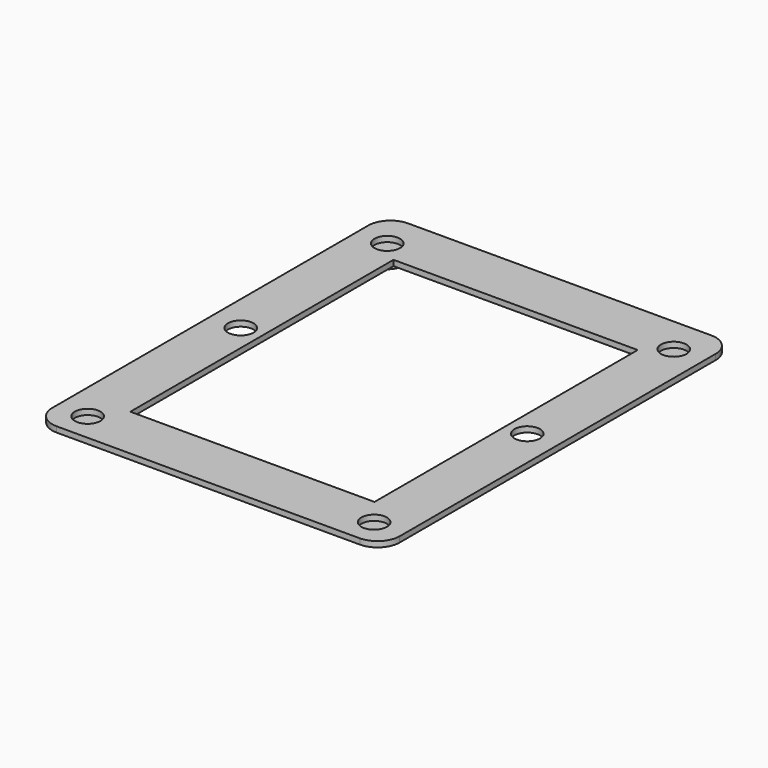
from build123d import *

# Parameters (mm, degrees)
F0_R     = 7.3025
F0_W     = 139.7
F0_H     = 188.2024109364
F1_DEPTH = 3.175
F2_R     = 7.3025
F3_DEPTH = 3.91726
F5_DEPTH = 1.26529
F6_R     = 9.2158818602
F7_DEPTH = 5.10748
F9_DEPTH = 0.84813


with BuildPart() as f1:
    # F0 (on Top) → F1 (new body)
    with BuildSketch(Plane.XY):
        with BuildLine():
            ThreePointArc((-99.3846207857, -112.9937384605), (-95.6648769068, -121.9739945816), (-86.6846207857, -125.6937384605))
            Line((-86.6846207857, -125.6937384605), (86.6846207857, -125.6937384605))
            ThreePointArc((86.6846207857, -125.6937384605), (95.6648769068, -121.9739945816), (99.3846207857, -112.9937384605))
            Line((99.3846207857, -112.9937384605), (99.3846207857, 112.9937384605))
            ThreePointArc((99.3846207857, 112.9937384605), (95.6648769068, 121.9739945816), (86.6846207857, 125.6937384605))
            Line((86.6846207857, 125.6937384605), (-86.6846207857, 125.6937384605))
            ThreePointArc((-86.6846207857, 125.6937384605), (-95.6648769068, 121.9739945816), (-99.3846207857, 112.9937384605))
            Line((-99.3846207857, 112.9937384605), (-99.3846207857, -112.9937384605))
        make_face()
        with Locations((-81.9471254945, -109.4888299704)):
            Circle(F0_R, mode=Mode.SUBTRACT)
        with Locations((81.9471254945, -109.4888299704)):
            Circle(F0_R, mode=Mode.SUBTRACT)
        with Locations((-81.9471254945, 0)):
            Circle(F0_R, mode=Mode.SUBTRACT)
        with Locations((-81.9471254945, 104.7541797161)):
            Circle(F0_R, mode=Mode.SUBTRACT)
        Rectangle(F0_W, F0_H, mode=Mode.SUBTRACT)
        with Locations((81.9471254945, 0)):
            Circle(F0_R, mode=Mode.SUBTRACT)
        with Locations((81.9471254945, 104.7541797161)):
            Circle(F0_R, mode=Mode.SUBTRACT)
    extrude(amount=F1_DEPTH)

    # F6 (on face) → F7 (join)
    with BuildSketch(Plane(origin=(0, 0, 0), x_dir=(1, 0, 0), z_dir=(0, 0, -1))):
        with Locations((-81.9471254945, -104.7541797161)):
            Circle(F6_R)
    extrude(amount=F7_DEPTH)

    # F8 (on face) → F9 (cut)
    with BuildSketch(Plane(origin=(0, 0, -5.10748), x_dir=(1, 0, 0), z_dir=(0, 0, -1))):
        Polygon((-80.5061895981, -104.7332882773), (-81.5217207537, -103.3773124326), (-83.1251468021, -103.9241203757), (-83.1005874429, -105.6180421146), (-81.4819828757, -106.1181353803), align=None)
    extrude(amount=-F9_DEPTH, mode=Mode.SUBTRACT)



with BuildPart() as f3:
    # F2 (on face) → F3 (new body)
    with BuildSketch(Plane(origin=(0, 0, 0), x_dir=(1, 0, 0), z_dir=(0, 0, -1))):
        with Locations((-81.9471254945, 109.4888299704)):
            Circle(F2_R)
    extrude(amount=F3_DEPTH)

    # F4 (on face) → F5 (cut)
    with BuildSketch(Plane(origin=(0, 0, -3.91726), x_dir=(1, 0, 0), z_dir=(0, 0, -1))):
        Polygon((-80.5158242583, 108.4489287519), (-80.5158242583, 110.5287311888), (-82.4938339186, 111.1714254868), (-83.7163111186, 109.4888299704), (-82.4938339186, 107.806234454), align=None)
    extrude(amount=-F5_DEPTH, mode=Mode.SUBTRACT)


with BuildPart() as f1_1:
    add(f1.part)

    add(f3.part)  # F10 merges F3
    # F10: F3, F1 across plane
    add(f3.part.mirror(Plane.YZ))
    add(f1.part.mirror(Plane.YZ))


solid = f1_1.part
